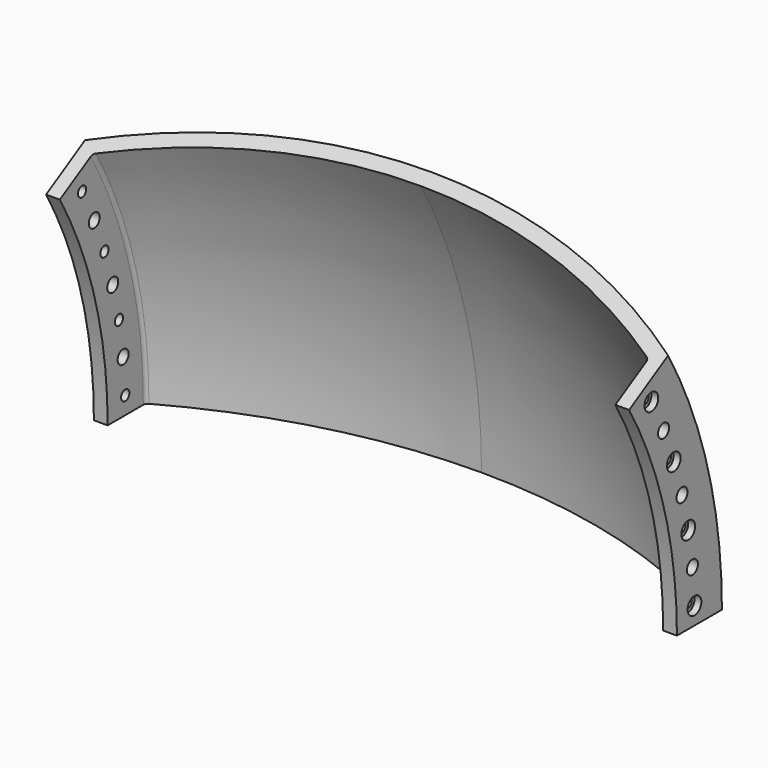
from build123d import *

# Parameters (mm, degrees)
F1_ANGLE = 30
F2_R     = 2
F3_R     = 2
F4_R     = 2.25
F4_R_2   = 3
F5_DEPTH = 424.191445
F6_R     = 3.75
F7_DEPTH = 3
F8_R     = 3.75
F9_DEPTH = 3


with BuildPart() as f1:
    # F0 (on Top) → F1 (revolve)
    with BuildSketch(Plane.XY):
        with BuildLine():
            Line((127, 194.31499), (127, 218.81499))
            ThreePointArc((127, 218.81499), (65.760199, 244.304311), (0, 253))
            Line((0, 253), (0, 246.65))
            ThreePointArc((0, 246.65), (62.544207, 238.588442), (121, 214.930739))
            Line((121, 214.930739), (121, 194.31499))
            Line((121, 194.31499), (127, 194.31499))
        make_face()
        with BuildLine():
            Line((0, 246.65), (0, 253))
            ThreePointArc((0, 253), (-65.760199, 244.304311), (-127, 218.81499))
            Line((-127, 218.81499), (-127, 194.31499))
            Line((-127, 194.31499), (-121, 194.31499))
            Line((-121, 194.31499), (-121, 214.930739))
            ThreePointArc((-121, 214.930739), (-62.544207, 238.588442), (0, 246.65))
        make_face()
    revolve(axis=Axis((69.665767, 0, 0), (1, 0, 0)), revolution_arc=F1_ANGLE)

    # F2
    f2_edges = [f1.edges().sort_by_distance(p)[0] for p in [
        (121, 207.607152, 55.628169),
    ]]
    fillet(f2_edges, radius=F2_R)

    # F3
    f3_edges = [f1.edges().sort_by_distance(p)[0] for p in [
        (-121, 207.607152, 55.628169),
    ]]
    fillet(f3_edges, radius=F3_R)

    # F4 (on face) → F5 (cut, symmetric)
    with BuildSketch(Plane.YZ.offset(-121)):
        with Locations((203.893977, 7.629174)):
            Circle(F4_R)
        with Locations((202.753719, 22.844858)):
            Circle(F4_R_2)
        with Locations((200.47958, 37.932783)):
            Circle(F4_R)
        with Locations((197.084278, 52.808573)):
            Circle(F4_R_2)
        with Locations((192.586801, 67.389036)):
            Circle(F4_R)
        with Locations((187.0123, 81.592633)):
            Circle(F4_R_2)
        with Locations((180.391951, 95.33993)):
            Circle(F4_R)
    extrude(amount=F5_DEPTH, both=True, mode=Mode.SUBTRACT)

    # F6 (on face) → F7 (cut)
    with BuildSketch(Plane.YZ.offset(127)):
        with Locations((203.893977, 7.629174)):
            Circle(F6_R)
        with Locations((200.47958, 37.932783)):
            Circle(F6_R)
        with Locations((192.586801, 67.389036)):
            Circle(F6_R)
        with Locations((180.391951, 95.33993)):
            Circle(F6_R)
    extrude(amount=-F7_DEPTH, mode=Mode.SUBTRACT)

    # F8 (on face) → F9 (cut)
    with BuildSketch(Plane(origin=(-127, 0, 0), x_dir=(0, -1, 0), z_dir=(-1, 0, 0))):
        with Locations((-203.893977, 7.629174)):
            Circle(F8_R)
        with Locations((-200.47958, 37.932783)):
            Circle(F8_R)
        with Locations((-192.586801, 67.389036)):
            Circle(F8_R)
        with Locations((-180.391951, 95.33993)):
            Circle(F8_R)
    extrude(amount=-F9_DEPTH, mode=Mode.SUBTRACT)


solid = f1.part
